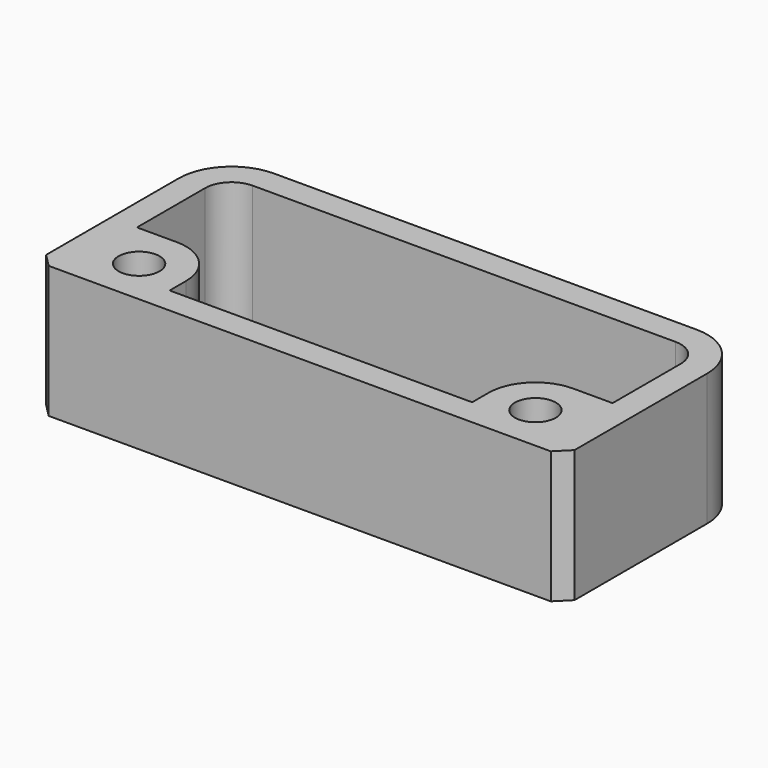
from build123d import *

# Parameters (mm, degrees)
F0_R     = 1.55
F1_DEPTH = 10
F3_SIZE  = 1


with BuildPart() as f1:
    # F0 (on Top) → F1 (new body)
    with BuildSketch(Plane.XY):
        with BuildLine():
            Line((16, 17.55), (0, 17.55))
            Line((0, 17.55), (0, 15.55))
            Line((0, 15.55), (16, 15.55))
            ThreePointArc((16, 15.55), (17.4142135624, 14.9642135624), (18, 13.55))
            Line((18, 13.55), (18, 7.1))
            Line((18, 7.1), (15, 7.1))
            ThreePointArc((15, 7.1), (12.4897709268, 6.0602290732), (11.45, 3.55))
            Line((11.45, 3.55), (11.45, 2))
            Line((11.45, 2), (0, 2))
            Line((0, 2), (0, 0))
            Line((0, 0), (20, 0))
            Line((20, 0), (20, 13.55))
            ThreePointArc((20, 13.55), (18.8284271247, 16.3784271247), (16, 17.55))
        make_face()
        with Locations((15, 3.55)):
            Circle(F0_R, mode=Mode.SUBTRACT)
    extrude(amount=F1_DEPTH)

    # F2: F1 across face


with BuildPart() as f1_1:
    add(f1.part)
    add(f1.part.mirror(Plane(origin=(0, 16.55, 5), x_dir=(0, -1, 0), z_dir=(-1, 0, 0))))

    # F3
    f3_edges = [f1_1.edges().sort_by_distance(p)[0] for p in [
        (-20, 0, 5),
        (20, 0, 5),
    ]]
    chamfer(f3_edges, length=F3_SIZE)


solid = f1_1.part
